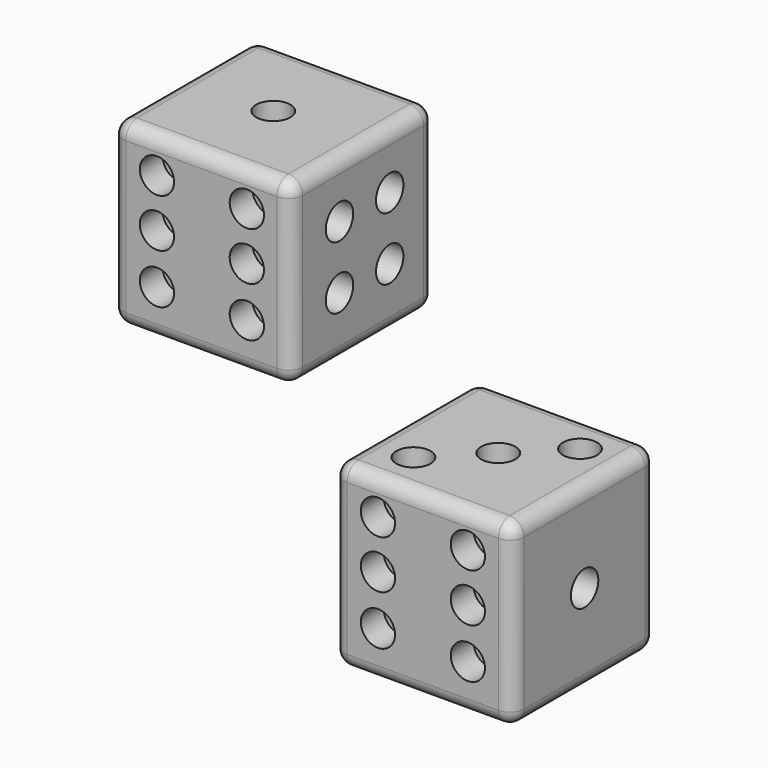
from build123d import *

# Parameters (mm, degrees)
F0_W      = 16.002
F0_H      = 16.002
F1_DEPTH  = 16.002
F2_R      = 1.27
F2_2_R    = 1.27
F3_R      = 1.524
F5_DEPTH  = 2.54
F4_R      = 1.524
F6_DEPTH  = 3.81
F7_R      = 1.524
F8_DEPTH  = 2.54
F9_R      = 1.524
F10_DEPTH = 2.54
F11_R     = 1.524
F12_DEPTH = 2.54
F13_R     = 1.524
F14_DEPTH = 2.54
F15_DEPTH = 2.54
F16_DEPTH = 5.08
F17_DEPTH = 2.54
F18_DEPTH = 6.35
F19_DEPTH = 2.54
F20_R     = 1.524
F21_DEPTH = 2.54
F23_DEPTH = 2.54


with BuildPart() as f1:
    # F0 (on Front) → F1 (new body)
    with BuildSketch(Plane.XZ):
        with Locations((-4.0449609755, 5.4850227911)):
            Rectangle(F0_W, F0_H)
    extrude(amount=F1_DEPTH)

    # F2
    f2_edges = [f1.edges().sort_by_distance(p)[0] for p in [
        (-12.045961, -8.001, -2.515977),
        (-4.044961, -16.002, -2.515977),
        (-12.045961, -16.002, 5.485023),
        (3.956039, -8.001, -2.515977),
        (-4.044961, 0, -2.515977),
        (-12.045961, 0, 5.485023),
        (3.956039, 0, 5.485023),
        (3.956039, -8.001, 13.486023),
        (-4.044961, -16.002, 13.486023),
        (-12.045961, -8.001, 13.486023),
        (-4.044961, 0, 13.486023),
        (3.956039, -16.002, 5.485023),
    ]]
    fillet(f2_edges, radius=F2_R)

    # F3 (on face) → F5 (cut)
    with BuildSketch(Plane.XZ.offset(16.002)):
        with Locations((0, 6.0870293528)):
            Circle(F3_R)
        with Locations((0, 10.3926107027)):
            Circle(F3_R)
        with Locations((-8.0015104574, 10.3926107027)):
            Circle(F3_R)
        with Locations((-8.0019982573, 6.0870293528)):
            Circle(F3_R)
        with Locations((-8.0015104574, 1.6628870863)):
            Circle(F3_R)
        with Locations((0, 1.6628870863)):
            Circle(F3_R)
    extrude(amount=-F5_DEPTH, mode=Mode.SUBTRACT)

    # F4 (on face) → F6 (cut)
    with BuildSketch(Plane.YZ.offset(3.9560390245)):
        with Locations((-10.414, -12.2211461659)):
            Circle(F4_R)
        with Locations((-4.826, -12.2211461659)):
            Circle(F4_R)
        with Locations((-10.414, -17.8091461659)):
            Circle(F4_R)
        with Locations((-4.826, -17.8091461659)):
            Circle(F4_R)
    extrude(amount=-F6_DEPTH, mode=Mode.SUBTRACT)

    # F7 (on face) → F8 (cut)
    with BuildSketch(Plane(origin=(0, 0, 0), x_dir=(-1, 0, 0), z_dir=(0, 1, 0))):
        with Locations((0, 8.7870227911)):
            Circle(F7_R)
        with Locations((4.1757369299, 5.1849772363)):
            Circle(F7_R)
        with Locations((8.0835609755, 8.7870227911)):
            Circle(F7_R)
        with Locations((0, 2.1830227911)):
            Circle(F7_R)
        with Locations((8.0835609755, 2.1832855485)):
            Circle(F7_R)
    extrude(amount=-F8_DEPTH, mode=Mode.SUBTRACT)

    # F9 (on face) → F10 (cut)
    with BuildSketch(Plane(origin=(0, 0, -2.5159772089), x_dir=(1, 0, 0), z_dir=(0, 0, -1))):
        with Locations((-8.2359609755, 12.192)):
            Circle(F9_R)
        with Locations((0, 3.9560390245)):
            Circle(F9_R)
        with Locations((-4.0449609755, 8.001)):
            Circle(F9_R)
    extrude(amount=-F10_DEPTH, mode=Mode.SUBTRACT)

    # F11 (on face) → F12 (cut)
    with BuildSketch(Plane(origin=(-12.0459609755, 0, 0), x_dir=(0, -1, 0), z_dir=(-1, 0, 0))):
        with Locations((5.939733183, 3.4237559741)):
            Circle(F11_R)
        with Locations((10.062266817, 7.5462896082)):
            Circle(F11_R)
    extrude(amount=-F12_DEPTH, mode=Mode.SUBTRACT)

    # F13 (on face) → F14 (cut)
    with BuildSketch(Plane.XY.offset(13.4860227911)):
        with Locations((-4.0449609755, -8.001)):
            Circle(F13_R)
    extrude(amount=-F14_DEPTH, mode=Mode.SUBTRACT)

    # F4 (on face) → F15 (cut)
    with BuildSketch(Plane.YZ.offset(3.9560390245)):
        with Locations((-10.6418334472, 8.5014702345)):
            Circle(F4_R)
        with Locations((-10.6418334472, 2.9134702345)):
            Circle(F4_R)
        with Locations((-5.0538334472, 2.9134702345)):
            Circle(F4_R)
        with Locations((-5.0538334472, 8.5014702345)):
            Circle(F4_R)
    extrude(amount=-F15_DEPTH, mode=Mode.SUBTRACT)


with BuildPart() as f1b:
    # F0 (on Front) → F1, piece 2 (new body)
    with BuildSketch(Plane.XZ):
        with Locations((15.6564712524, -14.8861547932)):
            Rectangle(F0_W, F0_H)
    extrude(amount=F1_DEPTH)

    # F2#2
    f2_2_edges = [f1b.edges().sort_by_distance(p)[0] for p in [
        (7.655471, -16.002, -14.886155),
        (23.657471, -16.002, -14.886155),
        (15.656471, -16.002, -6.885155),
        (15.656471, -16.002, -22.887155),
        (7.655471, -8.001, -22.887155),
        (23.657471, -8.001, -22.887155),
        (15.656471, 0, -22.887155),
        (7.655471, -8.001, -6.885155),
        (7.655471, 0, -14.886155),
        (15.656471, 0, -6.885155),
        (23.657471, 0, -14.886155),
        (23.657471, -8.001, -6.885155),
    ]]
    fillet(f2_2_edges, radius=F2_2_R)

    # F4 (on face) → F16 (cut)
    with BuildSketch(Plane.YZ.offset(3.9560390245)):
        with Locations((-4.826, -17.8091461659)):
            Circle(F4_R)
        with Locations((-4.826, -12.2211461659)):
            Circle(F4_R)
        with Locations((-10.414, -12.2211461659)):
            Circle(F4_R)
        with Locations((-10.414, -17.8091461659)):
            Circle(F4_R)
    extrude(amount=F16_DEPTH, mode=Mode.SUBTRACT)

    # F7 (on face) → F17 (cut)
    with BuildSketch(Plane(origin=(0, 0, 0), x_dir=(-1, 0, 0), z_dir=(0, 1, 0))):
        with Locations((-19.5919235051, -11.758012354)):
            Circle(F7_R)
        with Locations((-15.4161865752, -15.3600579088)):
            Circle(F7_R)
        with Locations((-11.5083625296, -11.758012354)):
            Circle(F7_R)
        with Locations((-19.5919235051, -18.362012354)):
            Circle(F7_R)
        with Locations((-11.5083625296, -18.3617495967)):
            Circle(F7_R)
    extrude(amount=-F17_DEPTH, mode=Mode.SUBTRACT)

    # F9 (on face) → F18 (cut)
    with BuildSketch(Plane(origin=(0, 0, -2.5159772089), x_dir=(1, 0, 0), z_dir=(0, 0, -1))):
        with Locations((11.6750139908, 12.0642021599)):
            Circle(F9_R)
        with Locations((15.8660139908, 7.8732021599)):
            Circle(F9_R)
        with Locations((19.9109749663, 3.8282411844)):
            Circle(F9_R)
    extrude(amount=F18_DEPTH, mode=Mode.SUBTRACT)

    # F3 (on face) → F19 (cut)
    with BuildSketch(Plane.XZ.offset(16.002)):
        with Locations((11.6675816328, -9.9607967916)):
            Circle(F3_R)
        with Locations((11.667093833, -14.2663781416)):
            Circle(F3_R)
        with Locations((19.6690920903, -9.9607967916)):
            Circle(F3_R)
        with Locations((19.6690920903, -14.2663781416)):
            Circle(F3_R)
        with Locations((19.6690920903, -18.690520408)):
            Circle(F3_R)
        with Locations((11.6675816328, -18.690520408)):
            Circle(F3_R)
    extrude(amount=-F19_DEPTH, mode=Mode.SUBTRACT)

    # F20 (on face) → F21 (cut)
    with BuildSketch(Plane(origin=(0, 0, -22.8871547932), x_dir=(1, 0, 0), z_dir=(0, 0, -1))):
        with Locations((11.9472761732, 11.6706522367)):
            Circle(F20_R)
        with Locations((19.0650487045, 5.1515711516)):
            Circle(F20_R)
    extrude(amount=-F21_DEPTH, mode=Mode.SUBTRACT)

    # F22 (on face) → F23 (cut)
    with BuildSketch(Plane.YZ.offset(23.6574712524)):
        with BuildLine():
            Line((-9.525, -14.8861547932), (-6.477, -14.8861547932))
            ThreePointArc((-6.477, -14.8861547932), (-8.001, -13.3621547932), (-9.525, -14.8861547932))
        make_face()
        with BuildLine():
            ThreePointArc((-9.525, -14.8861547932), (-8.001, -16.4101547932), (-6.477, -14.8861547932))
            Line((-6.477, -14.8861547932), (-9.525, -14.8861547932))
        make_face()
    extrude(amount=-F23_DEPTH, mode=Mode.SUBTRACT)


solid = Compound([f1.part, f1b.part])
